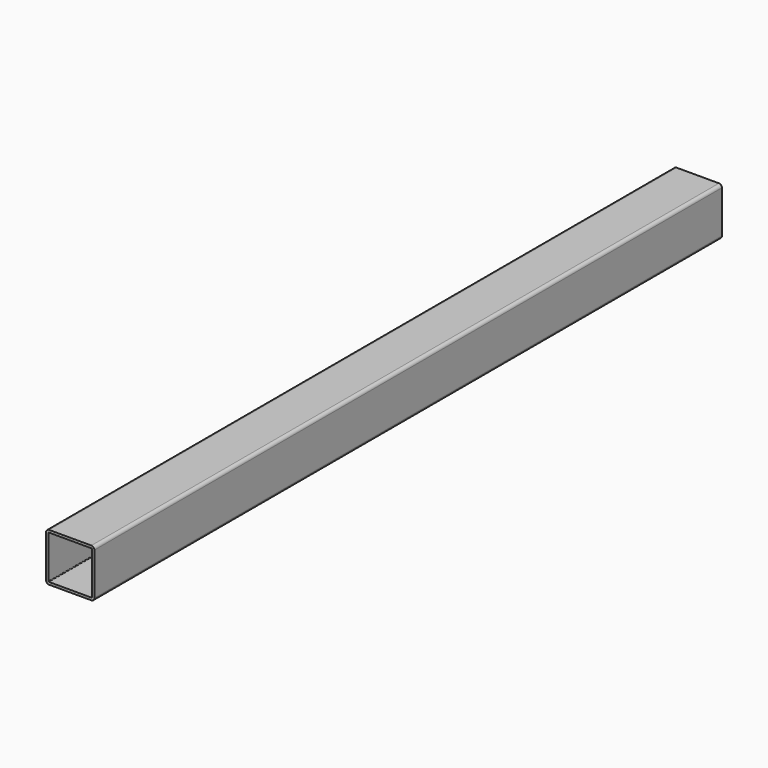
from build123d import *

# Parameters (mm, degrees)
F1_DEPTH = 1300


with BuildPart() as f1:
    # F0 (on Front) → F1 (new body)
    with BuildSketch(Plane.XZ):
        with BuildLine():
            ThreePointArc((40, 35), (38.535534, 38.535534), (35, 40))
            Line((35, 40), (-35, 40))
            ThreePointArc((-35, 40), (-38.535534, 38.535534), (-40, 35))
            Line((-40, 35), (-40, -35))
            ThreePointArc((-40, -35), (-38.535534, -38.535534), (-35, -40))
            Line((-35, -40), (35, -40))
            ThreePointArc((35, -40), (38.535534, -38.535534), (40, -35))
            Line((40, -35), (40, 35))
        make_face()
        with BuildLine():
            ThreePointArc((-36, 35), (-35.707107, 35.707107), (-35, 36))
            Line((-35, 36), (35, 36))
            ThreePointArc((35, 36), (35.707107, 35.707107), (36, 35))
            Line((36, 35), (36, -35))
            ThreePointArc((36, -35), (35.707107, -35.707107), (35, -36))
            Line((35, -36), (-35, -36))
            ThreePointArc((-35, -36), (-35.707107, -35.707107), (-36, -35))
            Line((-36, -35), (-36, 35))
        make_face(mode=Mode.SUBTRACT)
    extrude(amount=-F1_DEPTH)


solid = f1.part
